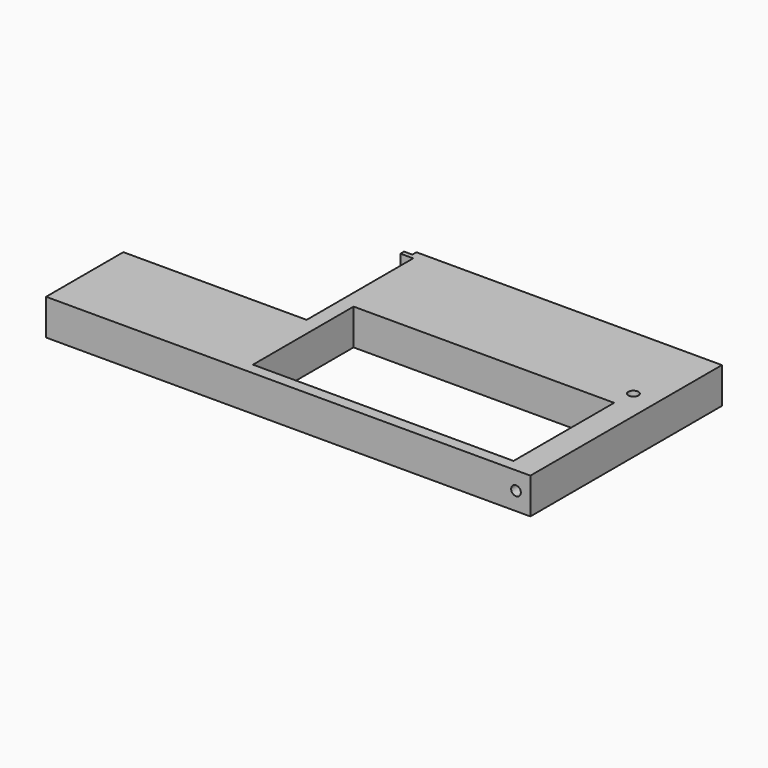
from build123d import *

# Parameters (mm, degrees)
SKETCH_R             = 2.25
PAD_DEPTH            = 16
SKETCH002_W          = 116
SKETCH002_H          = 56
POCKET001_DEPTH      = 0.001
POCKET001_DEPTH_BACK = -16.001
SKETCH003_W          = 129
SKETCH003_H          = 62
POCKET002_DEPTH      = 6
SKETCH004_R          = 7.5
POCKET_DEPTH         = 8
SKETCH005_R          = 2.15
POCKET003_DEPTH      = 25


with BuildPart() as part:
    # Sketch → Pad (new body)
    with BuildSketch(Plane.XY):
        Polygon((87, 5), (302.6, 5), (302.6, 111.6), (166.6, 111.6), (166.6, 109.3), (162.9, 109.3), (162.9, 107.3), (168.6, 107.3), (168.6, 48), (87, 48), align=None)
        with Locations((292, 75.6)):
            Circle(SKETCH_R, mode=Mode.SUBTRACT)
    extrude(amount=PAD_DEPTH)

    # Sketch002 → Pocket001 (cut, two sides)
    with BuildSketch(Plane.XY) as pocket001_sk:
        with Locations((233.1, 38)):
            Rectangle(SKETCH002_W, SKETCH002_H)
    extrude(amount=-POCKET001_DEPTH, mode=Mode.SUBTRACT)
    extrude(pocket001_sk.sketch, amount=-POCKET001_DEPTH_BACK, mode=Mode.SUBTRACT)

    # Sketch003 (on DatumPlane) → Pocket002 (cut)
    with BuildSketch(Plane.XY.offset(24)):
        with Locations((233.1, 36)):
            Rectangle(SKETCH003_W, SKETCH003_H)
    extrude(amount=-POCKET002_DEPTH, mode=Mode.SUBTRACT)

    # Sketch004 → Pocket (cut)
    with BuildSketch(Plane.XY):
        with Locations((292, 75.6)):
            Circle(SKETCH004_R)
    extrude(amount=POCKET_DEPTH, mode=Mode.SUBTRACT)

    # Sketch005 → Pocket003 (cut)
    with BuildSketch(Plane.XZ):
        with Locations((296.2, 8)):
            Circle(SKETCH005_R)
    extrude(amount=-POCKET003_DEPTH, mode=Mode.SUBTRACT)


solid = part.part
